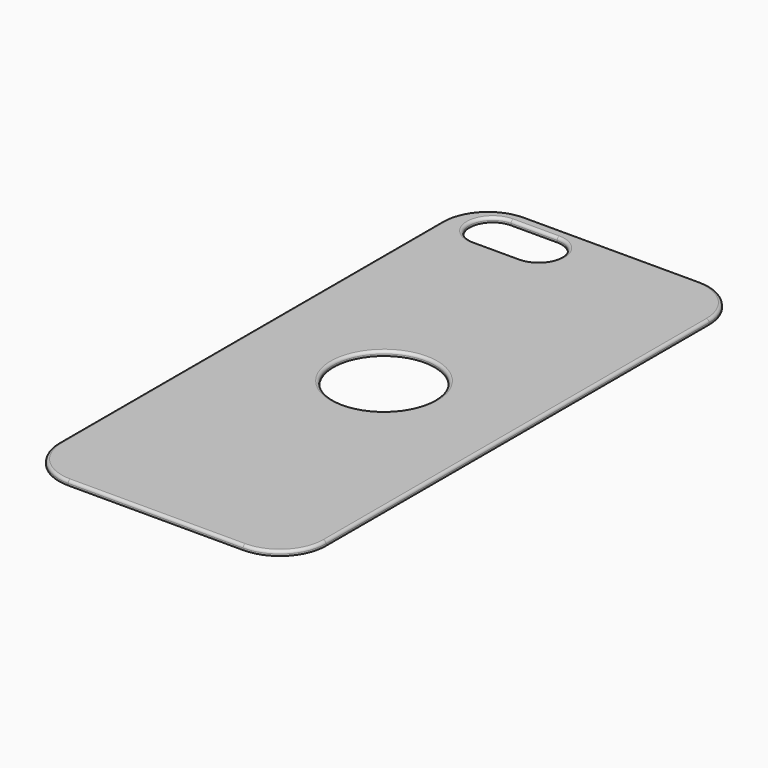
from build123d import *

# Parameters (mm, degrees)
F0_W     = 58
F0_H     = 124
F0_R     = 11
F1_DEPTH = 1
F2_R     = 10
F3_R     = 0.6


with BuildPart() as f1:
    # F0 (on Top) → F1 (new body)
    with BuildSketch(Plane.XY):
        Rectangle(F0_W, F0_H)
        with BuildLine():
            ThreePointArc((-20, 49.5), (-25, 54.5), (-20, 59.5))
            Line((-20, 59.5), (-10, 59.5))
            ThreePointArc((-10, 59.5), (-5, 54.5), (-10, 49.5))
            Line((-10, 49.5), (-20, 49.5))
        make_face(mode=Mode.SUBTRACT)
        Circle(F0_R, mode=Mode.SUBTRACT)
    extrude(amount=F1_DEPTH)

    # F2
    f2_edges = [f1.edges().sort_by_distance(p)[0] for p in [
        (-29, -62, 0.5),
        (29, -62, 0.5),
        (29, 62, 0.5),
        (-29, 62, 0.5),
    ]]
    fillet(f2_edges, radius=F2_R)

    # F3
    f3_edges = [f1.edges().sort_by_distance(p)[0] for p in [
        (29, 0, 1),
        (26.071068, -59.071068, 1),
        (26.071068, 59.071068, 1),
        (0, -62, 1),
        (0, 62, 1),
        (-26.071068, -59.071068, 1),
        (-26.071068, 59.071068, 1),
        (-29, 0, 1),
        (-25, 54.5, 1),
        (-15, 59.5, 1),
        (-5, 54.5, 1),
        (-15, 49.5, 1),
        (-11, 0, 1),
    ]]
    fillet(f3_edges, radius=F3_R)


solid = f1.part
